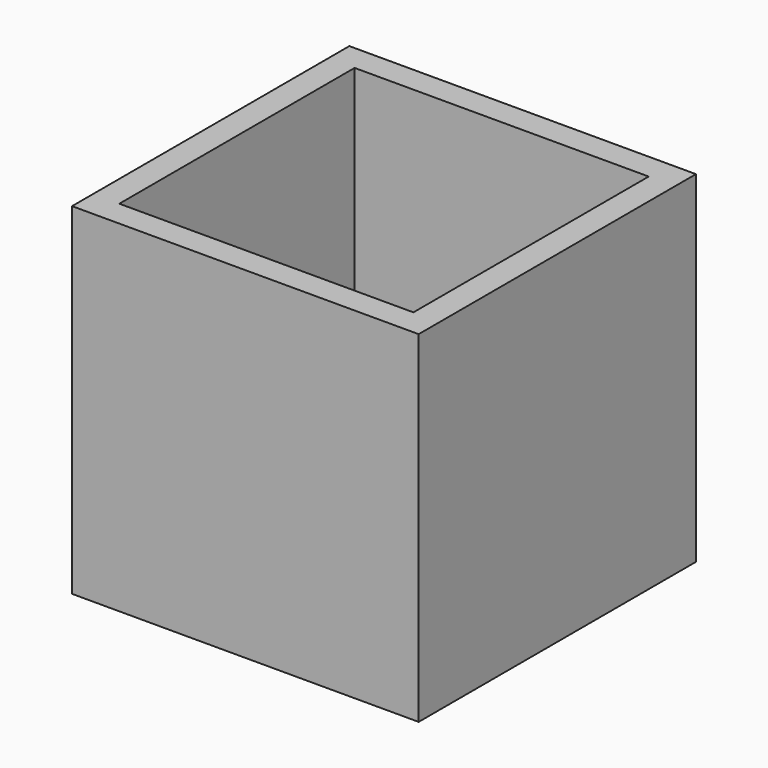
from build123d import *

# Parameters (mm, degrees)
F0_W     = 33
F0_H     = 33
F0_W_2   = 28
F0_H_2   = 28
F1_DEPTH = 2.5
F2_DEPTH = 30


with BuildPart() as f1:
    # F0 (on Top) → F1 (new body)
    with BuildSketch(Plane.XY):
        Rectangle(F0_W, F0_H)
        Rectangle(F0_W_2, F0_H_2, mode=Mode.SUBTRACT)
        Rectangle(F0_W_2, F0_H_2)
    extrude(amount=-F1_DEPTH)

    # F0 (on Top) → F2 (join)
    with BuildSketch(Plane.XY):
        Rectangle(F0_W, F0_H)
        Rectangle(F0_W_2, F0_H_2, mode=Mode.SUBTRACT)
    extrude(amount=F2_DEPTH)


solid = f1.part
